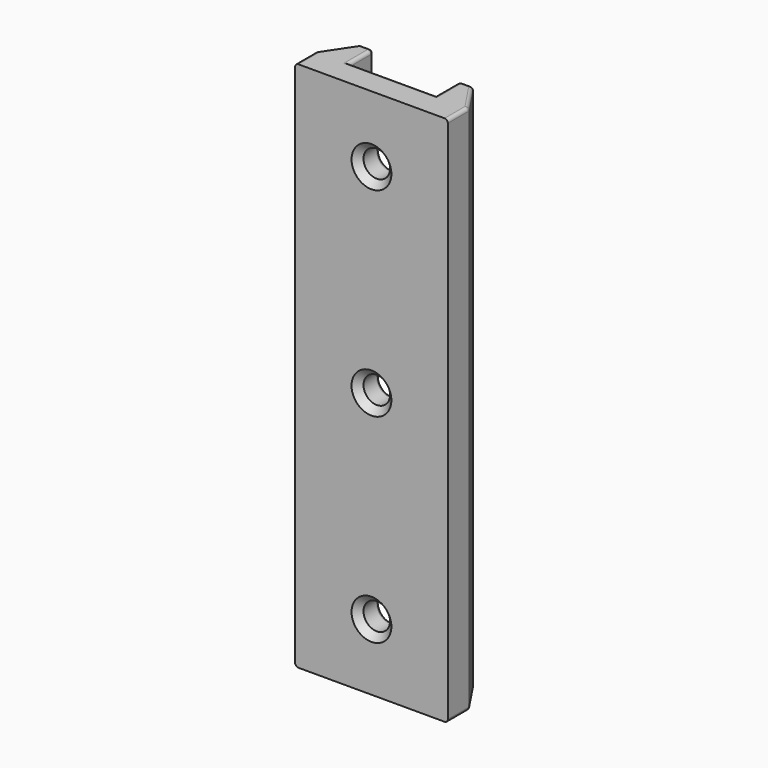
from build123d import *

# Parameters (mm, degrees)
F0_W           = 12
F0_H           = 80
F0_R           = 2
F0_W_2         = 5
F0_W_3         = 0.5
F1_DEPTH       = 4
F2_DEPTH       = 8.5
F3_SIZE2       = 3
F3_SIZE        = 4.5
F4_SIZE2       = 3
F4_SIZE        = 4.5
F5_D           = 4
F5_CSINK_D     = 6
F5_CSINK_ANGLE = 90
F6_R           = 0.5


with BuildPart() as f1:
    # F0 (on Front) → F1 (new body)
    with BuildSketch(Plane.XZ):
        Rectangle(F0_W, F0_H)
        with Locations((0, -30)):
            Circle(F0_R, mode=Mode.SUBTRACT)
        Circle(F0_R, mode=Mode.SUBTRACT)
        with Locations((0, 30)):
            Circle(F0_R, mode=Mode.SUBTRACT)
        with Locations((-9, 0)):
            Rectangle(F0_W_2, F0_H)
        with Locations((-6.25, 0)):
            Rectangle(F0_W_3, F0_H)
        with Locations((6.25, 0)):
            Rectangle(F0_W_3, F0_H)
        with Locations((9, 0)):
            Rectangle(F0_W_2, F0_H)
    extrude(amount=-F1_DEPTH)

    # F0 (on Front) → F2 (join)
    with BuildSketch(Plane.XZ):
        with Locations((-9, 0)):
            Rectangle(F0_W_2, F0_H)
        with Locations((9, 0)):
            Rectangle(F0_W_2, F0_H)
    extrude(amount=-F2_DEPTH)

    # F3
    f3_edges = [f1.edges().sort_by_distance(p)[0] for p in [
        (-11.5, 8.5, 0),
    ]]
    f3_side = f1.faces().sort_by_distance((-11.5, 4.25, 0))[0]
    chamfer(f3_edges, length=F3_SIZE, length2=F3_SIZE2, reference=f3_side)

    # F4
    f4_edges = [f1.edges().sort_by_distance(p)[0] for p in [
        (11.5, 8.5, 0),
    ]]
    f4_side = f1.faces().sort_by_distance((11.5, 4.25, 0))[0]
    chamfer(f4_edges, length=F4_SIZE, length2=F4_SIZE2, reference=f4_side)

    # F5 (through all)
    with Locations(Plane.XZ):
        with Locations((0, 0), (0, -30), (0, 30)):
            CounterSinkHole(F5_D / 2, F5_CSINK_D / 2, counter_sink_angle=F5_CSINK_ANGLE)

    # F6
    f6_edges = [f1.edges().sort_by_distance(p)[0] for p in [
        (10, 6.25, -40),
        (11.5, 4, 0),
        (8.5, 8.5, 0),
        (10, 6.25, 40),
        (7.5, 8.5, -40),
        (6.5, 8.5, 0),
        (7.5, 8.5, 40),
        (-7.5, 8.5, -40),
        (-8.5, 8.5, 0),
        (-6.5, 8.5, 0),
        (-7.5, 8.5, 40),
        (-10, 6.25, 40),
        (-11.5, 4, 0),
        (-10, 6.25, -40),
        (-2, 4, -30),
        (-2, 4, 0),
        (0, 4, -40),
        (6.5, 6.25, -40),
        (-6.5, 6.25, -40),
        (-11.5, 2, -40),
        (11.5, 2, -40),
        (11.5, 2, 40),
        (6.5, 6.25, 40),
        (0, 4, 40),
        (-6.5, 6.25, 40),
        (-11.5, 2, 40),
        (-2, 4, 30),
    ]]
    fillet(f6_edges, radius=F6_R)


solid = f1.part
